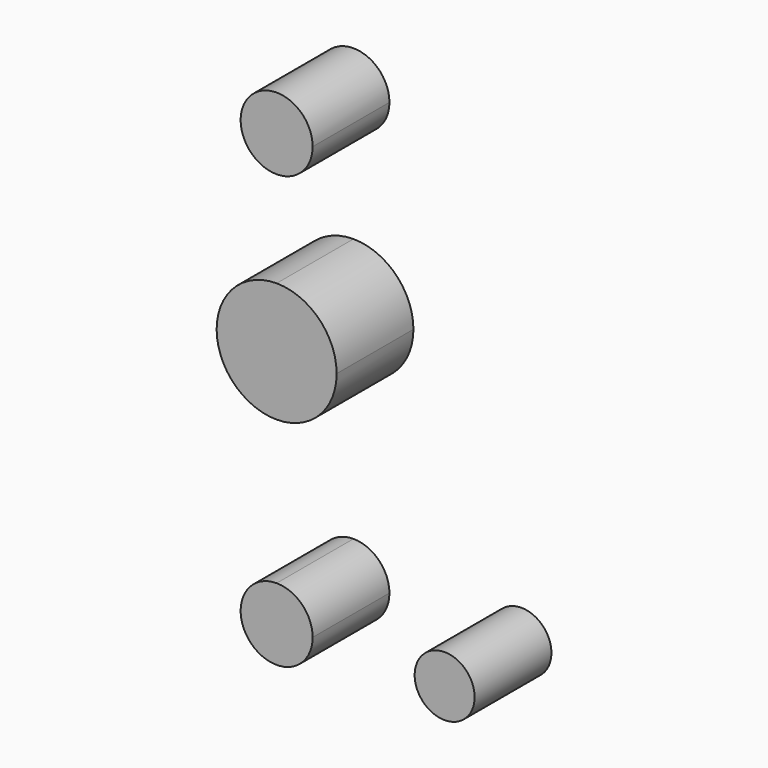
from build123d import *

# Parameters (mm, degrees)
F1_DEPTH = 25.4
F2_DEPTH = 25.4


with BuildPart() as f1:
    # F0 (on Front) → F1 (new body)
    with BuildSketch(Plane.XZ):
        with BuildLine():
            ThreePointArc((9.525, 114.3), (-6.735192, 121.035192), (0, 104.775))
            ThreePointArc((0, 104.775), (6.735192, 107.564808), (9.525, 114.3))
        make_face()
        with BuildLine():
            ThreePointArc((0, 79.375), (-15.875, 63.5), (0, 47.625))
            Line((0, 47.625), (0, 63.5))
            Line((0, 63.5), (0, 79.375))
        make_face()
        with BuildLine():
            Line((0, 63.5), (0, 47.625))
            ThreePointArc((0, 47.625), (11.22532, 52.27468), (15.875, 63.5))
            ThreePointArc((15.875, 63.5), (11.22532, 74.72532), (0, 79.375))
            Line((0, 79.375), (0, 63.5))
        make_face()
        with BuildLine():
            ThreePointArc((52.3875, 0), (44.45, 7.9375), (36.5125, 0))
            ThreePointArc((36.5125, 0), (44.45, -7.9375), (52.3875, 0))
        make_face()
        with BuildLine():
            ThreePointArc((9.525, 0), (6.735192, 6.735192), (0, 9.525))
            Line((0, 9.525), (0, 0))
            Line((0, 0), (9.525, 0))
        make_face()
        with BuildLine():
            Line((0, 0), (0, 9.525))
            ThreePointArc((0, 9.525), (-6.735192, -6.735192), (9.525, 0))
            Line((9.525, 0), (0, 0))
        make_face()
    extrude(amount=F1_DEPTH)


with BuildPart() as f2:
    # F0 (on Front) → F2 (new body)
    with BuildSketch(Plane.XZ):
        with BuildLine():
            ThreePointArc((9.525, 114.3), (-6.735192, 121.035192), (0, 104.775))
            ThreePointArc((0, 104.775), (6.735192, 107.564808), (9.525, 114.3))
        make_face()
        with BuildLine():
            ThreePointArc((0, 79.375), (-15.875, 63.5), (0, 47.625))
            Line((0, 47.625), (0, 63.5))
            Line((0, 63.5), (0, 79.375))
        make_face()
        with BuildLine():
            Line((0, 63.5), (0, 47.625))
            ThreePointArc((0, 47.625), (11.22532, 52.27468), (15.875, 63.5))
            ThreePointArc((15.875, 63.5), (11.22532, 74.72532), (0, 79.375))
            Line((0, 79.375), (0, 63.5))
        make_face()
        with BuildLine():
            ThreePointArc((52.3875, 0), (44.45, 7.9375), (36.5125, 0))
            ThreePointArc((36.5125, 0), (44.45, -7.9375), (52.3875, 0))
        make_face()
        with BuildLine():
            ThreePointArc((9.525, 0), (6.735192, 6.735192), (0, 9.525))
            Line((0, 9.525), (0, 0))
            Line((0, 0), (9.525, 0))
        make_face()
        with BuildLine():
            Line((0, 0), (0, 9.525))
            ThreePointArc((0, 9.525), (-6.735192, -6.735192), (9.525, 0))
            Line((9.525, 0), (0, 0))
        make_face()
    extrude(amount=F2_DEPTH)


solid = Compound([f1.part, f2.part])
